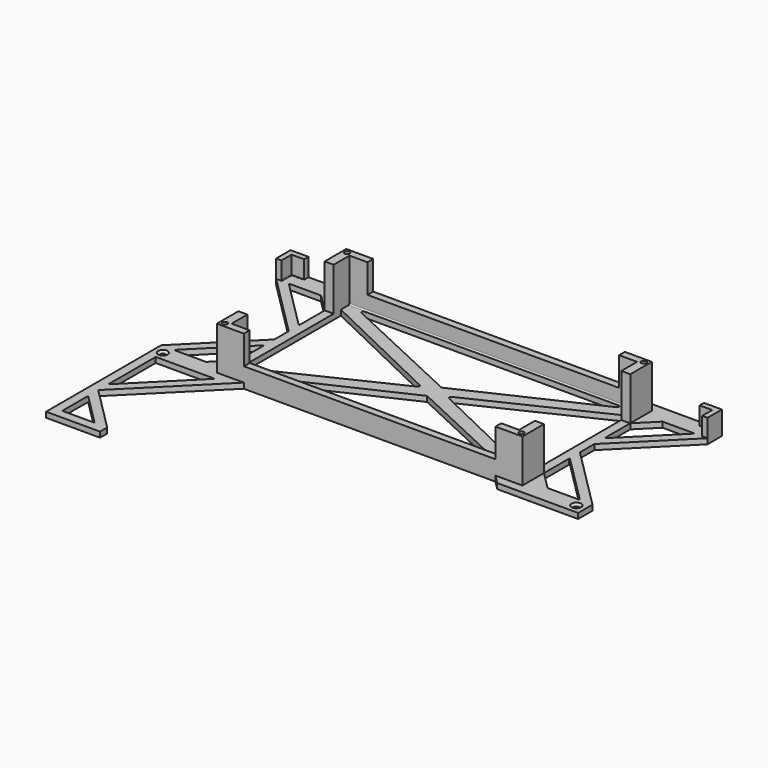
from build123d import *

# Parameters (mm, degrees)
SKETCH003_W     = 170
SKETCH003_H     = 90
SKETCH003_W_2   = 160
SKETCH003_H_2   = 80
PAD_DEPTH       = 3
PAD001_DEPTH    = 3
PAD002_DEPTH    = 3
PAD003_DEPTH    = 3
PAD004_DEPTH    = 3
PAD005_DEPTH    = 10
PAD006_DEPTH    = 10
PAD007_DEPTH    = 24
SKETCH014_R     = 1.65
HOLE_DEPTH      = 30
SKETCH015_R     = 1.325
HOLE001_DEPTH   = 30
SKETCH016_R     = 1.325
HOLE002_DEPTH   = 30
SKETCH017_R     = 1.325
HOLE003_DEPTH   = 30
FILLET_R        = 0.3
FILLET001_R     = 0.3
FILLET002_R     = 0.3
FILLET003_R     = 0.3
FILLET004_R     = 0.3
FILLET005_R     = 0.3
FILLET006_R     = 0.3
FILLET007_R     = 0.3
FILLET008_R     = 0.3
FILLET009_R     = 0.3
SKETCH018_W     = 3.707428
SKETCH018_H     = 3.707435
PAD008_DEPTH    = 27
SKETCH019_W     = 4.325348
SKETCH019_H     = 3.769226
PAD009_DEPTH    = 27
SKETCH020_W     = 4.473305
SKETCH020_H     = 4.349049
PAD010_DEPTH    = 27
SKETCH021_W     = 3.413819
SKETCH021_H     = 3.638272
PAD011_DEPTH    = 27
SKETCH023_R     = 1.4
POCKET_DEPTH    = 30
SKETCH024_R     = 1.4
POCKET001_DEPTH = 30
SKETCH025_R     = 1.4
POCKET002_DEPTH = 30
SKETCH026_R     = 1.4
POCKET003_DEPTH = 30
SKETCH027_R     = 1.5
POCKET004_DEPTH = 5
CHAMFER_SIZE    = 1.2
SKETCH028_W     = 10
SKETCH028_H     = 1
POCKET005_DEPTH = 24
SKETCH029_W     = 10
SKETCH029_H     = 1
POCKET006_DEPTH = 24
SKETCH030_W     = 10
SKETCH030_H     = 1
POCKET007_DEPTH = 24
PAD012_DEPTH    = 3
SKETCH032_W     = 140
SKETCH032_H     = 4
PAD013_DEPTH    = 8
FILLET010_R     = 0.7
FILLET011_R     = 1


with BuildPart() as part:
    # Sketch003 → Pad (new body)
    with BuildSketch(Plane.XY):
        Rectangle(SKETCH003_W, SKETCH003_H)
        Rectangle(SKETCH003_W_2, SKETCH003_H_2, mode=Mode.SUBTRACT)
    extrude(amount=PAD_DEPTH)

    # Sketch005 → Pad001 (join)
    with BuildSketch(Plane.XY):
        Polygon((-70, 45), (-75, 50), (-120, 50), (-120, 40), (-85, 5), (-85, 12), (-113, 40), (-95, 40), (-85, 30), (-85, 45), align=None)
    extrude(amount=PAD001_DEPTH)

    # Sketch007 → Pad002 (join)
    with BuildSketch(Plane.XY):
        Polygon((70, 45), (75, 50), (120, 50), (120, 40), (85, 5), (85, 12), (113, 40), (95, 40), (85, 30), (85, 45), align=None)
    extrude(amount=PAD002_DEPTH)

    # Sketch008 → Pad003 (join)
    with BuildSketch(Plane.XY):
        Polygon((70, -45), (75, -50), (120, -50), (120, -40), (85, -5), (85, -12), (113, -40), (95, -40), (85, -30), (85, -45), align=None)
    extrude(amount=PAD003_DEPTH)

    # Sketch009 → Pad004 (join)
    with BuildSketch(Plane.XY):
        Polygon((-70, -45), (-75, -50), (-115, -90), (-90, -115), (-90, -120), (-120, -120), (-120, -50), (-120, -40), (-85, -5), (-85, -12), (-113, -40), (-95, -40), (-85, -30), (-85, -45), align=None)
        Polygon((-115, -50), (-115, -83), (-82, -50), align=None, mode=Mode.SUBTRACT)
        Polygon((-115, -97), (-115, -115), (-97, -115), align=None, mode=Mode.SUBTRACT)
    extrude(amount=PAD004_DEPTH)

    # Sketch011 (on Face23 of Pad004) → Pad005 (join)
    with BuildSketch(Plane.XY.offset(3)):
        Polygon((-120, 50), (-120, 40), (-117, 40), (-117, 47), (-110, 47), (-110, 50), align=None)
    extrude(amount=PAD005_DEPTH)

    # Sketch012 (on Face22 of Pad005) → Pad006 (join)
    with BuildSketch(Plane.XY.offset(3)):
        Polygon((120, 50), (110, 50), (110, 47), (117, 47), (117, 40), (120, 40), align=None)
    extrude(amount=PAD006_DEPTH)

    # Sketch013 (on Face4 of Pad006) → Pad007 (join)
    with BuildSketch(Plane.XY.offset(3)):
        Polygon((-85, 45), (-85, 30), (-80, 30), (-80, 40), (-70, 40), (-70, 45), align=None)
        Polygon((85, 45), (85, 30), (80, 30), (80, 40), (70, 40), (70, 45), align=None)
        Polygon((85, -45), (85, -30), (80, -30), (80, -40), (70, -40), (70, -45), align=None)
        Polygon((-85, -45), (-85, -30), (-80, -30), (-80, -40), (-70, -40), (-70, -45), align=None)
    extrude(amount=PAD007_DEPTH)

    # Sketch014 (on Face80 of Pad007) → Hole (cut)
    with BuildSketch(Plane.XY.offset(27)):
        with Locations((-82.5, 42.5)):
            Circle(SKETCH014_R)
    extrude(amount=-HOLE_DEPTH, mode=Mode.SUBTRACT)

    # Sketch015 (on Face99 of Hole) → Hole001 (cut)
    with BuildSketch(Plane.XY.offset(27)):
        with Locations((-82.5, -42.5)):
            Circle(SKETCH015_R)
    extrude(amount=-HOLE001_DEPTH, mode=Mode.SUBTRACT)

    # Sketch016 (on Face84 of Hole001) → Hole002 (cut)
    with BuildSketch(Plane.XY.offset(27)):
        with Locations((82.5, 42.5)):
            Circle(SKETCH016_R)
    extrude(amount=-HOLE002_DEPTH, mode=Mode.SUBTRACT)

    # Sketch017 (on Face104 of Hole002) → Hole003 (cut)
    with BuildSketch(Plane.XY.offset(27)):
        with Locations((82.5, -42.5)):
            Circle(SKETCH017_R)
    extrude(amount=-HOLE003_DEPTH, mode=Mode.SUBTRACT)

    # Fillet
    fillet_edges = [part.edges().sort_by_distance(p)[0] for p in [
        (-115, -97, 1.5),
    ]]
    fillet(fillet_edges, radius=FILLET_R)

    # Fillet001
    fillet001_edges = [part.edges().sort_by_distance(p)[0] for p in [
        (-115, -115, 1.5),
    ]]
    fillet(fillet001_edges, radius=FILLET001_R)

    # Fillet002
    fillet002_edges = [part.edges().sort_by_distance(p)[0] for p in [
        (-97, -115, 1.5),
    ]]
    fillet(fillet002_edges, radius=FILLET002_R)

    # Fillet003
    fillet003_edges = [part.edges().sort_by_distance(p)[0] for p in [
        (-115, -90, 1.5),
    ]]
    fillet(fillet003_edges, radius=FILLET003_R)

    # Fillet004
    fillet004_edges = [part.edges().sort_by_distance(p)[0] for p in [
        (-115, -50, 1.5),
        (-115, -83, 1.5),
        (-82, -50, 1.5),
    ]]
    fillet(fillet004_edges, radius=FILLET004_R)

    # Fillet005
    fillet005_edges = [part.edges().sort_by_distance(p)[0] for p in [
        (-95, -40, 1.5),
        (-85, -12, 1.5),
        (-113, -40, 1.5),
    ]]
    fillet(fillet005_edges, radius=FILLET005_R)

    # Fillet006
    fillet006_edges = [part.edges().sort_by_distance(p)[0] for p in [
        (-117, 43.5, 3),
        (-113.5, 47, 3),
    ]]
    fillet(fillet006_edges, radius=FILLET006_R)

    # Fillet007
    fillet007_edges = [part.edges().sort_by_distance(p)[0] for p in [
        (-113, 40, 1.5),
        (-85, 12, 1.5),
    ]]
    fillet(fillet007_edges, radius=FILLET007_R)

    # Fillet008
    fillet008_edges = [part.edges().sort_by_distance(p)[0] for p in [
        (113.5, 47, 3),
        (117, 43.5, 3),
        (113, 40, 1.5),
        (85, 12, 1.5),
    ]]
    fillet(fillet008_edges, radius=FILLET008_R)

    # Fillet009
    fillet009_edges = [part.edges().sort_by_distance(p)[0] for p in [
        (113, -40, 1.5),
        (85, -12, 1.5),
    ]]
    fillet(fillet009_edges, radius=FILLET009_R)

    # Sketch018 (on Face81 of Fillet009) → Pad008 (join)
    with BuildSketch(Plane.XY.offset(27)):
        with Locations((82.542801, -42.437325)):
            Rectangle(SKETCH018_W, SKETCH018_H)
    extrude(amount=-PAD008_DEPTH)

    # Sketch019 (on Face37 of Pad008) → Pad009 (join)
    with BuildSketch(Plane.XY.offset(27)):
        with Locations((82.440964, 42.612553)):
            Rectangle(SKETCH019_W, SKETCH019_H)
    extrude(amount=-PAD009_DEPTH)

    # Sketch020 (on Face85 of Pad009) → Pad010 (join)
    with BuildSketch(Plane.XY.offset(27)):
        with Locations((-82.434589, 42.41842)):
            Rectangle(SKETCH020_W, SKETCH020_H)
    extrude(amount=-PAD010_DEPTH)

    # Sketch021 (on Face18 of Pad010) → Pad011 (join)
    with BuildSketch(Plane.XY.offset(27)):
        with Locations((-82.443809, -42.548483)):
            Rectangle(SKETCH021_W, SKETCH021_H)
    extrude(amount=-PAD011_DEPTH)

    # Sketch023 (on Face83 of Pad011) → Pocket (cut)
    with BuildSketch(Plane.XY.offset(27)):
        with Locations((-82.5, 42.5)):
            Circle(SKETCH023_R)
    extrude(amount=-POCKET_DEPTH, mode=Mode.SUBTRACT)

    # Sketch024 (on Face99 of Hole) → Pocket001 (cut)
    with BuildSketch(Plane.XY.offset(27)):
        with Locations((-82.5, -42.5)):
            Circle(SKETCH024_R)
    extrude(amount=-POCKET001_DEPTH, mode=Mode.SUBTRACT)

    # Sketch025 (on Face84 of Hole001) → Pocket002 (cut)
    with BuildSketch(Plane.XY.offset(27)):
        with Locations((82.5, 42.5)):
            Circle(SKETCH025_R)
    extrude(amount=-POCKET002_DEPTH, mode=Mode.SUBTRACT)

    # Sketch026 (on Face104 of Hole002) → Pocket003 (cut)
    with BuildSketch(Plane.XY.offset(27)):
        with Locations((82.5, -42.5)):
            Circle(SKETCH026_R)
    extrude(amount=-POCKET003_DEPTH, mode=Mode.SUBTRACT)

    # Sketch027 (on Face6 of Pocket003) → Pocket004 (cut)
    with BuildSketch(Plane.XY.offset(3)):
        with Locations((-115, -45)):
            Circle(SKETCH027_R)
        with Locations((115, -45)):
            Circle(SKETCH027_R)
    extrude(amount=-POCKET004_DEPTH, mode=Mode.SUBTRACT)

    # Chamfer
    chamfer_edges = [part.edges().sort_by_distance(p)[0] for p in [
        (-116.5, -45, 3),
        (113.5, -45, 3),
    ]]
    chamfer(chamfer_edges, length=CHAMFER_SIZE)

    # Sketch028 (on Face51 of Chamfer) → Pocket005 (cut)
    with BuildSketch(Plane.XY.offset(27)):
        with Locations((-75, 40.5)):
            Rectangle(SKETCH028_W, SKETCH028_H)
    extrude(amount=-POCKET005_DEPTH, mode=Mode.SUBTRACT)

    # Sketch029 (on Face96 of Pocket005) → Pocket006 (cut)
    with BuildSketch(Plane.XY.offset(27)):
        with Locations((75, 40.5)):
            Rectangle(SKETCH029_W, SKETCH029_H)
    extrude(amount=-POCKET006_DEPTH, mode=Mode.SUBTRACT)

    # Sketch030 (on Face98 of Pocket006) → Pocket007 (cut)
    with BuildSketch(Plane.XY.offset(27)):
        with Locations((75, -40.5)):
            Rectangle(SKETCH030_W, SKETCH030_H)
        with Locations((-75, -40.5)):
            Rectangle(SKETCH030_W, SKETCH030_H)
    extrude(amount=-POCKET007_DEPTH, mode=Mode.SUBTRACT)

    # Sketch031 → Pad012 (join)
    with BuildSketch(Plane.XY):
        Polygon((-80, 40), (-75, 40), (0, 5), (75, 40), (80, 40), (80, 35), (7, 0), (80, -35), (80, -40), (75, -40), (0, -5), (-75, -40), (-80, -40), (-80, -35), (-7, 0), (-80, 35), align=None)
    extrude(amount=PAD012_DEPTH)

    # Sketch032 (on Face109 of Pad012) → Pad013 (join)
    with BuildSketch(Plane.XY.offset(3)):
        with Locations((0, 43)):
            Rectangle(SKETCH032_W, SKETCH032_H)
        with Locations((0, -43)):
            Rectangle(SKETCH032_W, SKETCH032_H)
    extrude(amount=PAD013_DEPTH)

    # Fillet010
    fillet010_edges = [part.edges().sort_by_distance(p)[0] for p in [
        (0, 41, 3),
        (0, -41, 3),
    ]]
    fillet(fillet010_edges, radius=FILLET010_R)

    # Fillet011
    fillet011_edges = [part.edges().sort_by_distance(p)[0] for p in [
        (7, 0, 1.5),
        (-7, 0, 1.5),
        (-75, 40, 1.5),
        (-75, -40, 1.5),
        (75, -40, 1.5),
        (75, 40, 1.5),
    ]]
    fillet(fillet011_edges, radius=FILLET011_R)


solid = part.part
